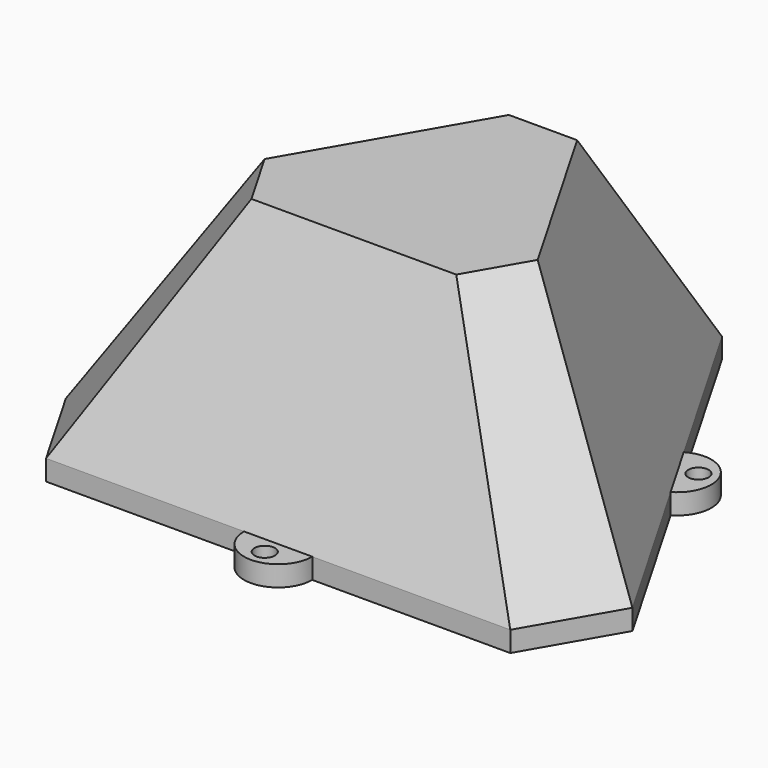
from build123d import *

# Parameters (mm, degrees)
PAD_DEPTH    = 3
SKETCH005_R  = 1.5
POCKET_DEPTH = 5


with BuildPart() as loft001:
    # Sketch001 → Loft001 section 0
    with BuildSketch(Plane.XY):
        Polygon((-6.500001, 41.280544), (6.499999, 41.280544), (39, -15.011106), (32.500001, -26.269437), (-32.499999, -26.269437), (-39, -15.011108), align=None)
    # Sketch003 → Loft001 section 1
    with BuildSketch(Plane.XY.offset(32)):
        Polygon((-4, 18.475209), (-18.000001, -5.773502), (-14, -12.701705), (14, -12.701705), (18.000001, -5.773502), (4, 18.475209), align=None)
    loft()


with BuildPart() as cut:
    # Sketch → Loft section 0
    with BuildSketch(Plane.XY):
        Polygon((-7.499995, 43.589943), (7.500005, 43.589943), (41.500006, -15.299784), (34.000005, -28.290164), (-33.999995, -28.290164), (-41.499996, -15.299784), align=None)
    # Sketch002 → Loft section 1
    with BuildSketch(Plane.XY.offset(34)):
        Polygon((-5, 20.207257), (5, 20.207257), (20.000001, -5.773505), (15, -14.433759), (-15, -14.433759), (-20.000001, -5.773505), align=None)
    loft()

    # Cut: cut Loft001
    add(loft001.part, mode=Mode.SUBTRACT)


with BuildPart() as pocket:
    # Sketch004 → Pad (new body)
    with BuildSketch(Plane(origin=(0, 0, 0), x_dir=(1, 0, 0), z_dir=(0, 0, -1))):
        with BuildLine():
            Line((-34, 28.290167), (-41.500001, 15.299787))
            Line((-41.500001, 15.299787), (-27.000001, -9.814949))
            ThreePointArc((-27.000001, -9.814949), (-28.830149, -16.645089), (-22, -18.475203))
            Line((-22, -18.475203), (-7.5, -43.58994))
            Line((-7.5, -43.58994), (7.5, -43.58994))
            Line((7.5, -43.58994), (22, -18.475203))
            ThreePointArc((22, -18.475203), (28.830128, -16.645077), (27.000001, -9.814949))
            Line((41.500001, 15.299787), (27.000001, -9.814949))
            Line((34, 28.290167), (41.500001, 15.299787))
            Line((5, 28.290167), (34, 28.290167))
            ThreePointArc((5, 28.290167), (0, 33.290167), (-5, 28.290167))
            Line((-34, 28.290167), (-5, 28.290167))
        make_face()
        Polygon((-32.5, 26.269436), (32.5, 26.269436), (39.000001, 15.011106), (6.5, -41.280545), (-6.5, -41.280545), (-39.000001, 15.011106), align=None, mode=Mode.SUBTRACT)
    extrude(amount=PAD_DEPTH)

    # Sketch005 → Pocket (cut)
    with BuildSketch(Plane(origin=(0, 0, -3), x_dir=(1, 0, 0), z_dir=(0, 0, -1))):
        with Locations((0, 30.75)):
            Circle(SKETCH005_R)
        with Locations((26.630283, -15.374997)):
            Circle(SKETCH005_R)
        with Locations((-26.630283, -15.374997)):
            Circle(SKETCH005_R)
    extrude(amount=-POCKET_DEPTH, mode=Mode.SUBTRACT)


solid = Compound([cut.part, pocket.part])
